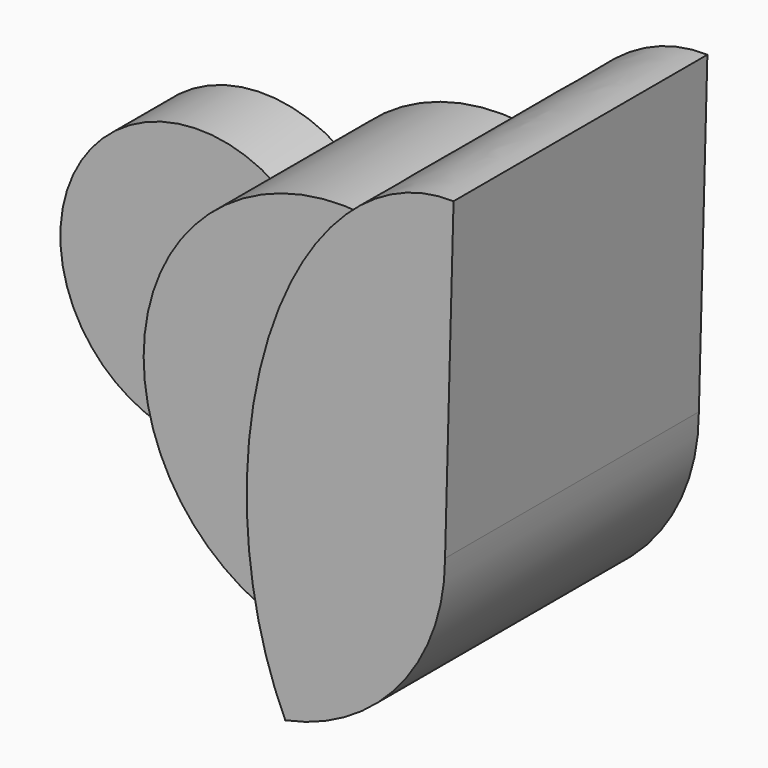
from build123d import *

# Parameters (mm, degrees)
F1_DEPTH = 25.4
F2_DEPTH = 63.5
F3_DEPTH = 101.6


with BuildPart() as f1:
    # F0 (on Front) → F1 (new body)
    with BuildSketch(Plane.XZ):
        with BuildLine():
            ThreePointArc((-51.59375, -37.0180356169), (-60.4501990278, -19.4428248333), (-63.5, 0))
            ThreePointArc((-63.5, 0), (-60.4501990278, 19.4428248333), (-51.59375, 37.0180356169))
            ThreePointArc((-51.59375, 37.0180356169), (-120.65, 0), (-51.59375, -37.0180356169))
        make_face()
    extrude(amount=F1_DEPTH)


with BuildPart() as f2:
    # F0 (on Front) → F2 (new body)
    with BuildSketch(Plane.XZ):
        with BuildLine():
            Line((-31.75, 0), (0, 0))
            add(Edge.make_bspline(
                [(14.1632788945, 61.9003354672), (0.5636968609, 34.5258018774), (0, 0)],
                knots=[0.9322474365, 0.9322474365, 0.9322474365, 1.5875365671, 1.5875365671, 1.5875365671], degree=2, weights=[1, 0.9468029807, 1]))
            ThreePointArc((14.1632788945, 61.9003354672), (-22.4731451572, 59.3903001065), (-51.59375, 37.0180356169))
            ThreePointArc((-51.59375, 37.0180356169), (-37.0237934934, 21.0006510316), (-31.75, 0))
        make_face()
        with BuildLine():
            add(Edge.make_bspline(
                [(0, 0), (-0.5682123889, -34.8023729145), (12.3249432224, -62.2924214858)],
                knots=[1.5875365671, 1.5875365671, 1.5875365671, 2.2477031853, 2.2477031853, 2.2477031853], degree=2, weights=[1, 0.9460153445, 1]))
            Line((0, 0), (-31.75, 0))
            ThreePointArc((-31.75, 0), (-37.0237934934, -21.0006510316), (-51.59375, -37.0180356169))
            ThreePointArc((-51.59375, -37.0180356169), (-23.3496989637, -59.0511774506), (12.3249432224, -62.2924214858))
        make_face()
        with BuildLine():
            Line((-63.5, 0), (-31.75, 0))
            ThreePointArc((-31.75, 0), (-37.0237934934, 21.0006510316), (-51.59375, 37.0180356169))
            ThreePointArc((-51.59375, 37.0180356169), (-60.4501990278, 19.4428248333), (-63.5, 0))
        make_face()
        with BuildLine():
            ThreePointArc((-51.59375, -37.0180356169), (-37.0237934934, -21.0006510316), (-31.75, 0))
            Line((-31.75, 0), (-63.5, 0))
            ThreePointArc((-63.5, 0), (-60.4501990278, -19.4428248333), (-51.59375, -37.0180356169))
        make_face()
    extrude(amount=F2_DEPTH)


with BuildPart() as f3:
    # F0 (on Front) → F3 (new body)
    with BuildSketch(Plane.XZ):
        with BuildLine():
            add(Edge.make_bspline(
                [(66.2211663616, 101.5635527817), (34.292824118, 102.4190007107), (14.1632788945, 61.9003354672)],
                knots=[0, 0, 0, 0.9322474365, 0.9322474365, 0.9322474365], degree=2, weights=[1, 0.8933171005, 1]))
            ThreePointArc((14.1632788945, 61.9003354672), (49.6569139687, 39.578288178), (63.5, 0))
            Line((63.5, 0), (66.2211663616, 101.5635527817))
        make_face()
        with BuildLine():
            add(Edge.make_bspline(
                [(14.1632788945, 61.9003354672), (0.5636968609, 34.5258018774), (0, 0)],
                knots=[0.9322474365, 0.9322474365, 0.9322474365, 1.5875365671, 1.5875365671, 1.5875365671], degree=2, weights=[1, 0.9468029807, 1]))
            add(Edge.make_bspline(
                [(0, 0), (-0.5682123889, -34.8023729145), (12.3249432224, -62.2924214858)],
                knots=[1.5875365671, 1.5875365671, 1.5875365671, 2.2477031853, 2.2477031853, 2.2477031853], degree=2, weights=[1, 0.9460153445, 1]))
            ThreePointArc((12.3249432224, -62.2924214858), (49.0656901237, -40.3089078578), (63.5, 0))
            ThreePointArc((63.5, 0), (49.6569139687, 39.578288178), (14.1632788945, 61.9003354672))
        make_face()
    extrude(amount=F3_DEPTH)


solid = Compound([f1.part, f2.part, f3.part])
